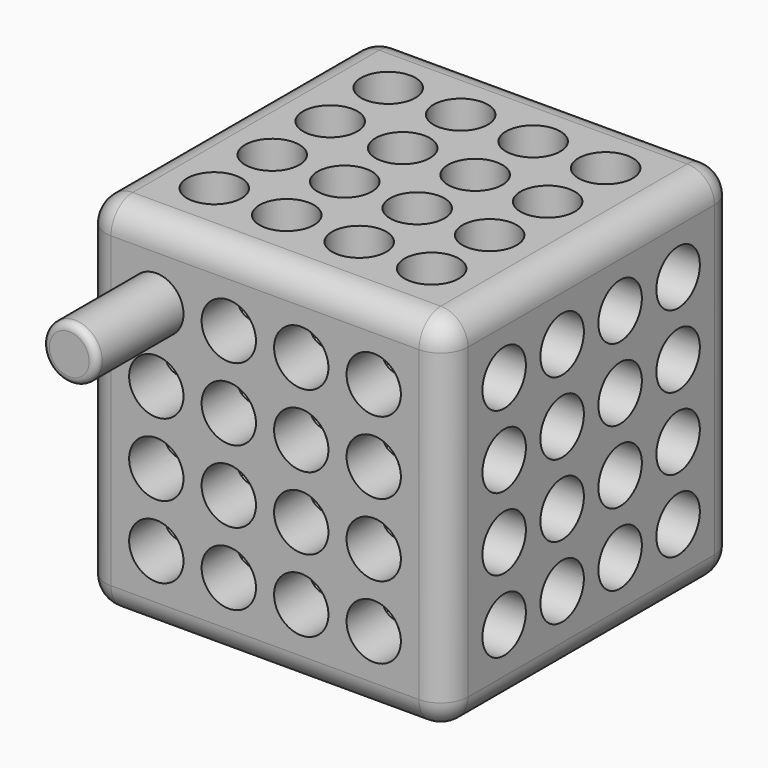
from build123d import *

# Parameters (mm, degrees)
F0_W          = 254
F0_H          = 254
F1_DEPTH      = 254
F2_R          = 19.05
F5_DEPTH      = 254.001
F3_R          = 19.05
F6_DEPTH      = 254.001
F4_R          = 19.05
F7_DEPTH      = 254.001
F8_R          = 18.9865
F9_DEPTH      = 76.2
F9_DEPTH_BACK = 31.75
F10_R         = 5.08
F11_R         = 19.05


with BuildPart() as f1:
    # F0 (on Top) → F1 (new body)
    with BuildSketch(Plane.XY):
        with Locations((127, 127)):
            Rectangle(F0_W, F0_H)
    extrude(amount=F1_DEPTH)

    # F2 (on face) → F5 (cut, through all)
    with BuildSketch(Plane.XY.offset(254)):
        with Locations((50.8, 50.8)):
            Circle(F2_R)
        with Locations((50.8, 101.6)):
            Circle(F2_R)
        with Locations((50.8, 152.4)):
            Circle(F2_R)
        with Locations((50.8, 203.2)):
            Circle(F2_R)
        with Locations((101.6, 50.8)):
            Circle(F2_R)
        with Locations((101.6, 101.6)):
            Circle(F2_R)
        with Locations((101.6, 152.4)):
            Circle(F2_R)
        with Locations((101.6, 203.2)):
            Circle(F2_R)
        with Locations((152.4, 50.8)):
            Circle(F2_R)
        with Locations((152.4, 101.6)):
            Circle(F2_R)
        with Locations((152.4, 152.4)):
            Circle(F2_R)
        with Locations((152.4, 203.2)):
            Circle(F2_R)
        with Locations((203.2, 50.8)):
            Circle(F2_R)
        with Locations((203.2, 101.6)):
            Circle(F2_R)
        with Locations((203.2, 152.4)):
            Circle(F2_R)
        with Locations((203.2, 203.2)):
            Circle(F2_R)
    extrude(amount=-F5_DEPTH, mode=Mode.SUBTRACT)

    # F3 (on face) → F6 (cut, through all)
    with BuildSketch(Plane.XZ):
        with Locations((50.8, 50.8)):
            Circle(F3_R)
        with Locations((50.8, 101.6)):
            Circle(F3_R)
        with Locations((50.8, 152.4)):
            Circle(F3_R)
        with Locations((50.8, 203.2)):
            Circle(F3_R)
        with Locations((101.6, 50.8)):
            Circle(F3_R)
        with Locations((101.6, 101.6)):
            Circle(F3_R)
        with Locations((101.6, 152.4)):
            Circle(F3_R)
        with Locations((101.6, 203.2)):
            Circle(F3_R)
        with Locations((152.4, 50.8)):
            Circle(F3_R)
        with Locations((152.4, 101.6)):
            Circle(F3_R)
        with Locations((152.4, 152.4)):
            Circle(F3_R)
        with Locations((152.4, 203.2)):
            Circle(F3_R)
        with Locations((203.2, 50.8)):
            Circle(F3_R)
        with Locations((203.2, 101.6)):
            Circle(F3_R)
        with Locations((203.2, 152.4)):
            Circle(F3_R)
        with Locations((203.2, 203.2)):
            Circle(F3_R)
    extrude(amount=-F6_DEPTH, mode=Mode.SUBTRACT)

    # F4 (on face) → F7 (cut, through all)
    with BuildSketch(Plane(origin=(0, 0, 0), x_dir=(0, -1, 0), z_dir=(-1, 0, 0))):
        with Locations((-50.8, 50.8)):
            Circle(F4_R)
        with Locations((-50.8, 101.6)):
            Circle(F4_R)
        with Locations((-50.8, 152.4)):
            Circle(F4_R)
        with Locations((-50.8, 203.2)):
            Circle(F4_R)
        with Locations((-101.6, 50.8)):
            Circle(F4_R)
        with Locations((-101.6, 101.6)):
            Circle(F4_R)
        with Locations((-101.6, 152.4)):
            Circle(F4_R)
        with Locations((-101.6, 203.2)):
            Circle(F4_R)
        with Locations((-152.4, 50.8)):
            Circle(F4_R)
        with Locations((-152.4, 101.6)):
            Circle(F4_R)
        with Locations((-152.4, 152.4)):
            Circle(F4_R)
        with Locations((-152.4, 203.2)):
            Circle(F4_R)
        with Locations((-203.2, 50.8)):
            Circle(F4_R)
        with Locations((-203.2, 101.6)):
            Circle(F4_R)
        with Locations((-203.2, 152.4)):
            Circle(F4_R)
        with Locations((-203.2, 203.2)):
            Circle(F4_R)
    extrude(amount=-F7_DEPTH, mode=Mode.SUBTRACT)

    # F11
    f11_edges = [f1.edges().sort_by_distance(p)[0] for p in [
        (127, 0, 254),
        (0, 127, 254),
        (0, 0, 127),
        (0, 254, 127),
        (0, 127, 0),
        (127, 0, 0),
        (254, 0, 127),
        (254, 127, 254),
        (127, 254, 254),
        (254, 127, 0),
        (254, 254, 127),
        (127, 254, 0),
    ]]
    fillet(f11_edges, radius=F11_R)


with BuildPart() as f9:
    # F8 (on face) → F9 (new body, two sides)
    with BuildSketch(Plane.XZ) as f9_sk:
        with Locations((50.8, 203.2)):
            Circle(F8_R)
    extrude(amount=F9_DEPTH)
    extrude(f9_sk.sketch, amount=-F9_DEPTH_BACK)

    # F10
    f10_edges = [f9.edges().sort_by_distance(p)[0] for p in [
        (31.8135, -76.2, 203.2),
        (31.8135, 31.75, 203.2),
    ]]
    fillet(f10_edges, radius=F10_R)


solid = Compound([f1.part, f9.part])
